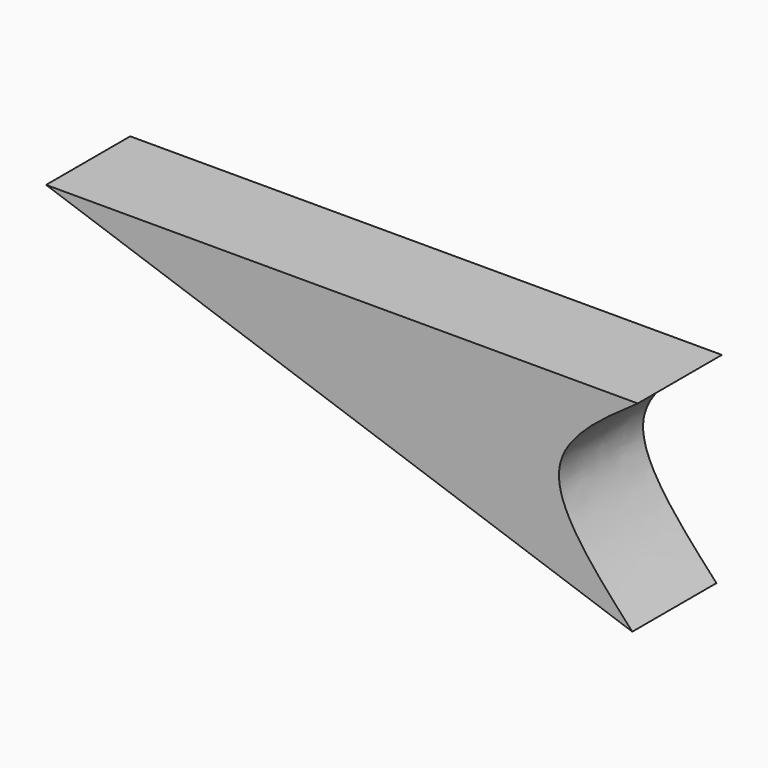
from build123d import *

# Parameters (mm, degrees)
F1_DEPTH = 6.35


with BuildPart() as f1:
    # F0 (on Front) → F1 (new body)
    with BuildSketch(Plane.XZ):
        with BuildLine():
            Line((-7.0083905011, 21.5948037803), (-42.7421815693, 21.5948037803))
            Line((-42.7421815693, 21.5948037803), (-7.3392596096, 9.3526709825))
            add(Edge.make_bspline(
                [(-7.0083905011, 21.5948037803), (-9.2861331211, 20.0157243966), (-14.0700173079, 16.6992246187), (-9.6531378062, 11.8782455227), (-7.3392596096, 9.3526709825)],
                knots=[0, 0, 0, 0, 0.4761282947, 1, 1, 1, 1], degree=3))
        make_face()
    extrude(amount=F1_DEPTH)


solid = f1.part
